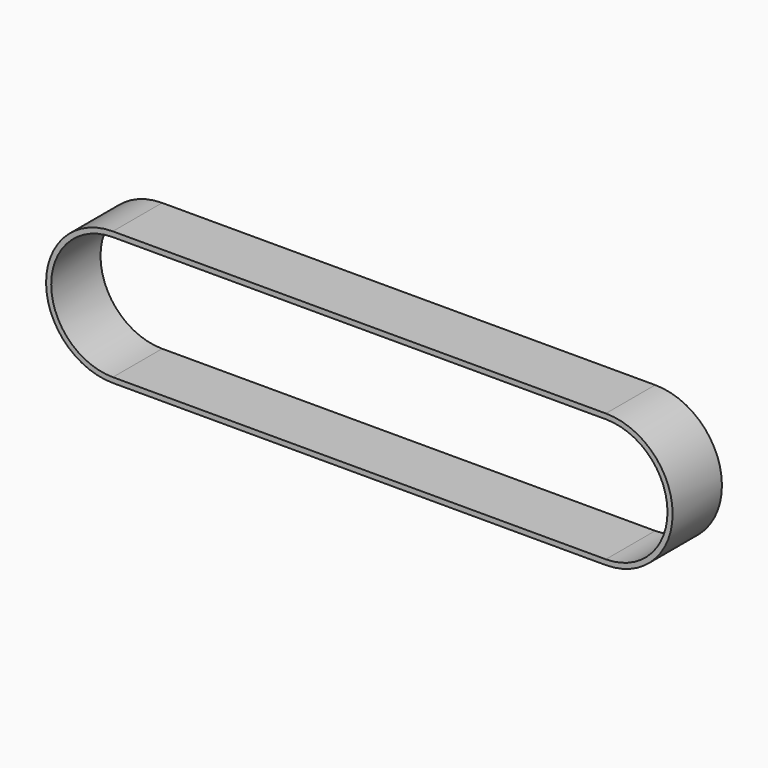
from build123d import *

# Parameters (mm, degrees)
F1_DEPTH = 6


with BuildPart() as f1:
    # F0 (on Front) → F1 (new body)
    with BuildSketch(Plane.XZ):
        with BuildLine():
            Line((0, 6.5), (-24, 6.5))
            ThreePointArc((-24, 6.5), (-30.5, 0), (-24, -6.5))
            Line((-24, -6.5), (0, -6.5))
            Line((0, -6.5), (24, -6.5))
            ThreePointArc((24, -6.5), (30.5, 0), (24, 6.5))
            Line((24, 6.5), (0, 6.5))
        make_face()
        with BuildLine():
            ThreePointArc((-24, -6), (-30, 0), (-24, 6))
            Line((-24, 6), (0, 6))
            Line((0, 6), (24, 6))
            ThreePointArc((24, 6), (30, 0), (24, -6))
            Line((24, -6), (0, -6))
            Line((0, -6), (-24, -6))
        make_face(mode=Mode.SUBTRACT)
    extrude(amount=F1_DEPTH)


solid = f1.part
